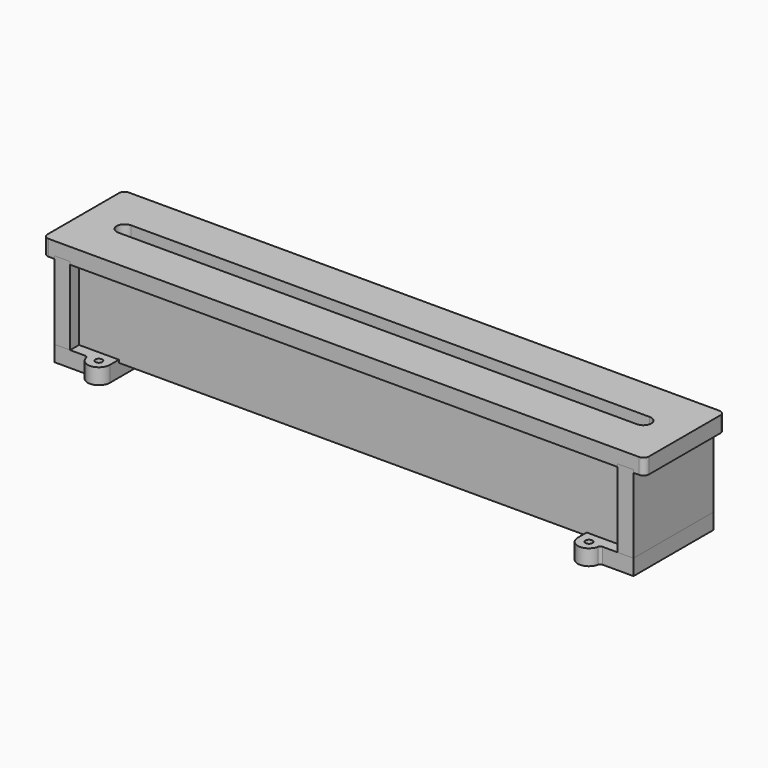
from build123d import *

# Parameters (mm, degrees)
F0_W      = 685.8
F0_H      = 114.3
F2_DEPTH  = 18
F4_DEPTH  = 18.001
F5_R      = 6.35
F6_W      = 18
F6_H      = 92.075
F7_DEPTH  = 114.3
F10_W     = 630.75
F10_H     = 92.075
F11_DEPTH = 18
F14_R     = 3.9751
F15_DEPTH = 18


with BuildPart() as f2:
    # F0 (on Top) → F2 (new body)
    with BuildSketch(Plane.XY):
        Rectangle(F0_W, F0_H)
    extrude(amount=F2_DEPTH)

    # F3 (on face) → F4 (cut, through all)
    with BuildSketch(Plane.XY.offset(18)):
        with BuildLine():
            Line((295.7492, 9.0508), (-295.7492, 9.0508))
            ThreePointArc((-295.7492, 9.0508), (-304.8, 0), (-295.7492, -9.0508))
            Line((-295.7492, -9.0508), (295.7492, -9.0508))
            ThreePointArc((295.7492, -9.0508), (304.8, 0), (295.7492, 9.0508))
        make_face()
    extrude(amount=-F4_DEPTH, mode=Mode.SUBTRACT)

    # F5
    f5_edges = [f2.edges().sort_by_distance(p)[0] for p in [
        (-342.9, -57.15, 9),
        (-342.9, 57.15, 9),
        (342.9, 57.15, 9),
        (342.9, -57.15, 9),
    ]]
    fillet(f5_edges, radius=F5_R)


with BuildPart() as f7:
    # F6 (on face) → F7 (new body, through all)
    with BuildSketch(Plane.XZ.offset(57.15)):
        with Locations((-321.2, -42.8625)):
            Rectangle(F6_W, F6_H)
    extrude(amount=-F7_DEPTH)


with BuildPart() as f8_1:
    # F8: instance of F7
    add(f7.part.mirror(Plane.YZ))


with BuildPart() as f11:
    # F10 (on offset) → F11 (new body)
    with BuildSketch(Plane.XZ.offset(44.45)):
        with Locations((0, -42.8625)):
            Rectangle(F10_W, F10_H)
    extrude(amount=-F11_DEPTH)


with BuildPart() as f12_1:
    # F12: instance of F11
    add(f11.part.mirror(Plane.XZ))


with BuildPart() as f15:
    # F14 (on offset) → F15 (new body)
    with BuildSketch(Plane(origin=(0, 0, -85.725), x_dir=(1, 0, 0), z_dir=(0, 0, -1))):
        with BuildLine():
            Line((-294.9542598667, 57.15), (-330.2, 57.15))
            Line((-330.2, 57.15), (-330.2, -57.15))
            Line((-330.2, -57.15), (-294.9542598667, -57.15))
            ThreePointArc((-294.9542598667, -57.15), (-292.9462135525, -57.8656555751), (-291.8434078933, -59.69))
            ThreePointArc((-291.8434078933, -59.69), (-278.1235361825, -69.7856891431), (-266.7, -57.15))
            Line((-266.7, -57.15), (-266.7, 57.15))
            ThreePointArc((-266.7, 57.15), (-278.1235361825, 69.7856891432), (-291.8434078933, 59.69))
            ThreePointArc((-291.8434078933, 59.69), (-292.9462135525, 57.8656555752), (-294.9542598667, 57.15))
        make_face()
        with Locations((-279.4, -57.15)):
            Circle(F14_R, mode=Mode.SUBTRACT)
        with Locations((-279.4, 57.15)):
            Circle(F14_R, mode=Mode.SUBTRACT)
    extrude(amount=F15_DEPTH)


with BuildPart() as f16_1:
    # F16: instance of F15
    add(f15.part.mirror(Plane.YZ))


solid = Compound([f2.part, f7.part, f8_1.part, f11.part, f12_1.part, f15.part, f16_1.part])
